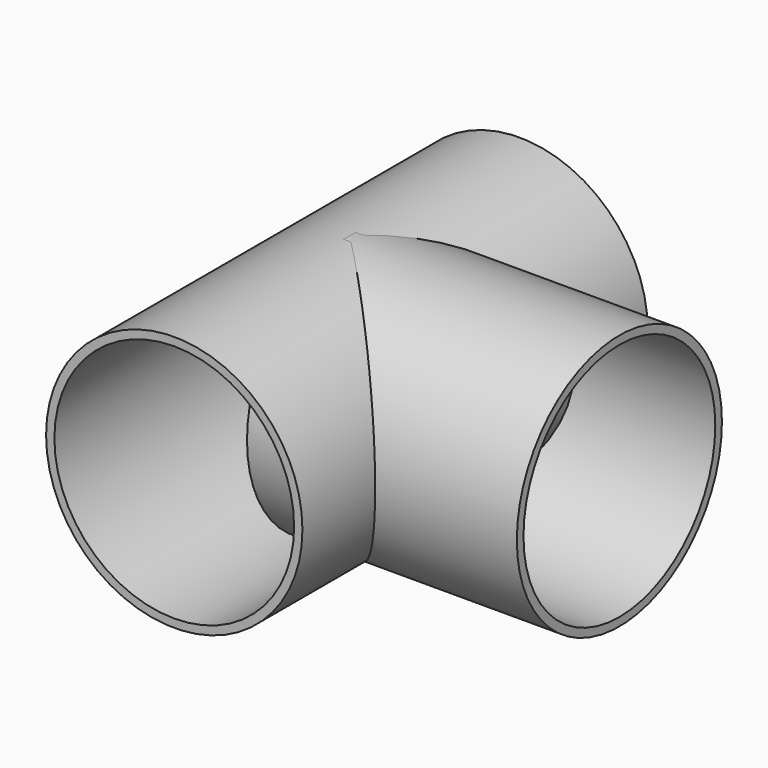
from build123d import *

# Parameters (mm, degrees)
F0_R     = 30.1625
F0_R_2   = 28.2067
F1_DEPTH = 101.6
F2_R     = 30.1625
F2_R_2   = 28.2067
F3_DEPTH = 63.5


with BuildPart() as f1:
    # F0 (on Front) → F1 (new body)
    with BuildSketch(Plane.XZ):
        Circle(F0_R)
        Circle(F0_R_2, mode=Mode.SUBTRACT)
    extrude(amount=F1_DEPTH)


with BuildPart() as f3:
    # F2 (on Right) → F3 (new body)
    with BuildSketch(Plane.YZ):
        Circle(F2_R)
        Circle(F2_R_2, mode=Mode.SUBTRACT)
    extrude(amount=F3_DEPTH)


with BuildPart() as f3_1:
    # F4: moved
    add(f3.part.moved(Location((0, -50.038, 0))))


solid = Compound([f1.part, f3_1.part])
